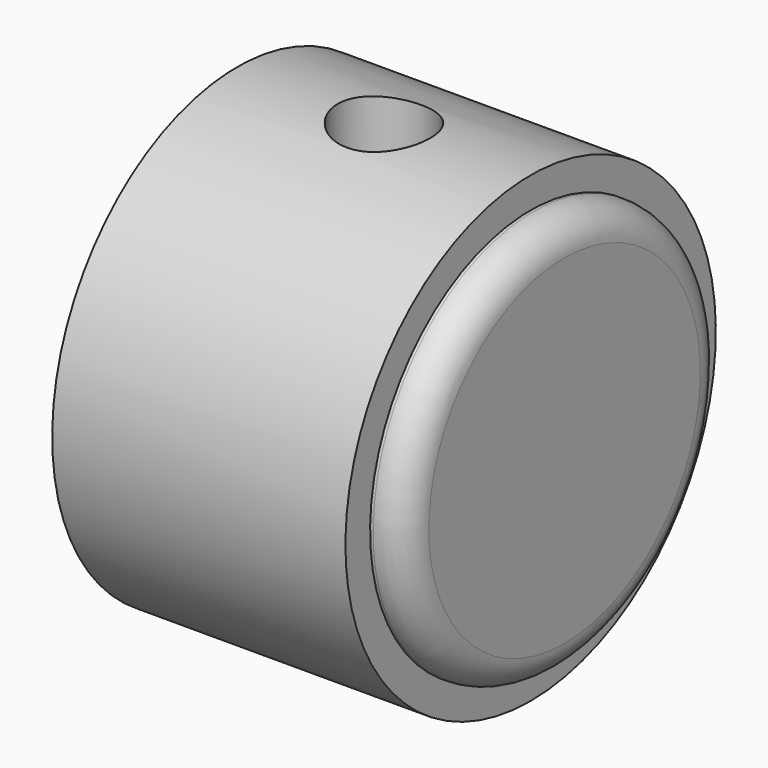
from build123d import *

# Parameters (mm, degrees)
SKETCH010_R             = 7.5
SKETCH010_R_2           = 3.05
PAD002_DEPTH            = 9.5
SKETCH009_R             = 6.5
PAD003_DEPTH            = 1.1
FILLET001_R             = 1
SKETCH011_R             = 1.5
POCKET001_DEPTH         = 5
BODY001_PLACEMENT_ANGLE = 90


with BuildPart() as part:
    # Sketch010 → Pad002 (new body)
    with BuildSketch(Plane.XY):
        Circle(SKETCH010_R)
        Circle(SKETCH010_R_2, mode=Mode.SUBTRACT)
    extrude(amount=PAD002_DEPTH)

    # Sketch009 (on Face4 of Pad002) → Pad003 (join)
    with BuildSketch(Plane.XY.offset(9.5)):
        Circle(SKETCH009_R)
    extrude(amount=PAD003_DEPTH)

    # Fillet001
    fillet001_edges = [part.edges().sort_by_distance(p)[0] for p in [
        (-6.5, 0, 10.6),
    ]]
    fillet(fillet001_edges, radius=FILLET001_R)

    # Sketch011 (on DatumPlane) → Pocket001 (cut)
    with BuildSketch(Plane(origin=(-8, 0, 4.75), x_dir=(0, 0, 1), z_dir=(-1, 0, 0))):
        Circle(SKETCH011_R)
    extrude(amount=-POCKET001_DEPTH, mode=Mode.SUBTRACT)


with BuildPart() as part_1:
    # Body001 placement: moved
    add(part.part.moved(Location((41, 28, 28))).rotate(Axis((41, 28, 28), (0, 1, 0)), BODY001_PLACEMENT_ANGLE))


solid = part_1.part
